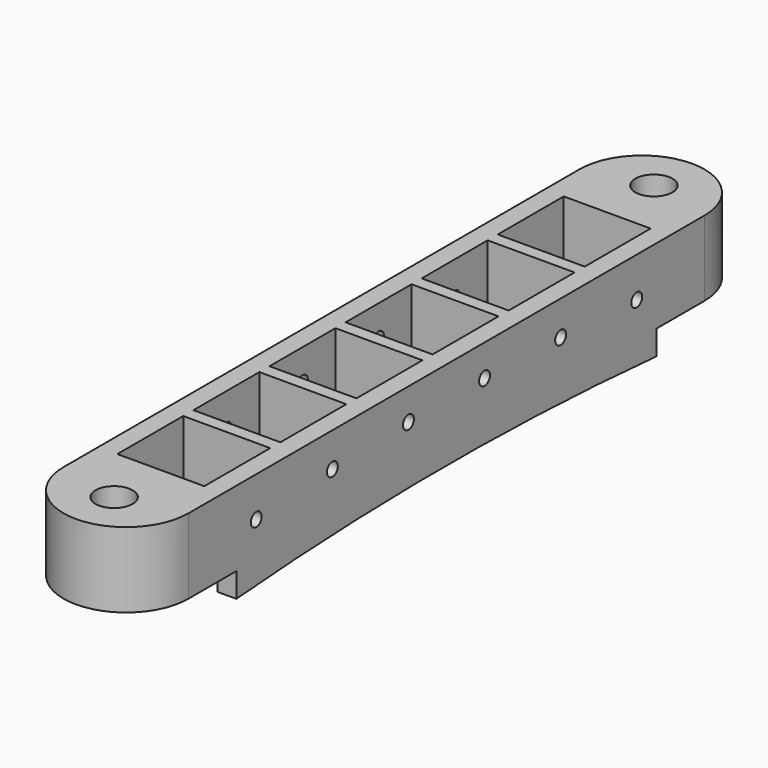
from build123d import *

# Parameters (mm, degrees)
F0_R     = 2.05
F0_W     = 9.6
F0_H     = 9.1
F1_DEPTH = 11
F2_W     = 13.5
F2_H     = 2.7
F2_R     = 0.75
F3_DEPTH = 13.801


with BuildPart() as f1:
    # F0 (on Top) → F1 (new body)
    with BuildSketch(Plane.XY):
        with BuildLine():
            ThreePointArc((6.9, 35.6), (0, 42.5), (-6.9, 35.6))
            Line((-6.9, 35.6), (-6.9, -35.6))
            ThreePointArc((-6.9, -35.6), (0, -42.5), (6.9, -35.6))
            Line((6.9, -35.6), (6.9, 35.6))
        make_face()
        with Locations((0, -37.25)):
            Circle(F0_R, mode=Mode.SUBTRACT)
        with Locations((0, -26.25)):
            Rectangle(F0_W, F0_H, mode=Mode.SUBTRACT)
        with Locations((0, -15.75)):
            Rectangle(F0_W, F0_H, mode=Mode.SUBTRACT)
        with Locations((0, -5.25)):
            Rectangle(F0_W, F0_H, mode=Mode.SUBTRACT)
        with Locations((0, 5.25)):
            Rectangle(F0_W, F0_H, mode=Mode.SUBTRACT)
        with Locations((0, 15.75)):
            Rectangle(F0_W, F0_H, mode=Mode.SUBTRACT)
        with Locations((0, 26.25)):
            Rectangle(F0_W, F0_H, mode=Mode.SUBTRACT)
        with Locations((0, 37.25)):
            Circle(F0_R, mode=Mode.SUBTRACT)
    extrude(amount=F1_DEPTH)

    # F2 (on face) → F3 (cut, through all)
    with BuildSketch(Plane(origin=(-6.9, 0, 0), x_dir=(0, -1, 0), z_dir=(-1, 0, 0))):
        with Locations((35.75, 1.35)):
            Rectangle(F2_W, F2_H)
        with BuildLine():
            ThreePointArc((29, 0), (0, 1.175197), (-29, 0))
            Line((-29, 0), (29, 0))
        make_face()
        with Locations((-35.75, 1.35)):
            Rectangle(F2_W, F2_H)
        with Locations((-26.25, 6.6)):
            Circle(F2_R)
        with Locations((-15.75, 7.21636)):
            Circle(F2_R)
        with Locations((-5.25, 7.524142)):
            Circle(F2_R)
        with Locations((5.25, 7.524142)):
            Circle(F2_R)
        with Locations((15.75, 7.21636)):
            Circle(F2_R)
        with Locations((26.25, 6.6)):
            Circle(F2_R)
    extrude(amount=-F3_DEPTH, mode=Mode.SUBTRACT)


solid = f1.part
